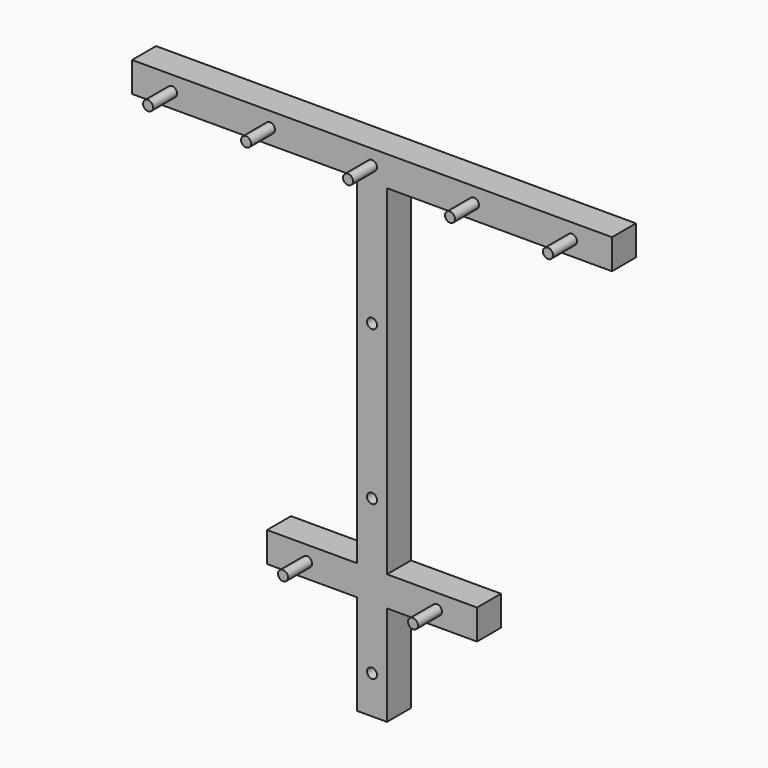
from build123d import *

# Parameters (mm, degrees)
F1_DEPTH = 38.1
F2_DEPTH = 38.1
F3_R     = 6.35
F4_DEPTH = 38.1
F5_R     = 6.35
F6_DEPTH = 38.1


with BuildPart() as f1:
    # F0 (on Front) → F1 (new body)
    with BuildSketch(Plane.XZ):
        Polygon((323.85, 635), (-285.75, 635), (-285.75, 596.9), (0, 596.9), (0, 165.1), (-114.3, 165.1), (-114.3, 127), (0, 127), (0, 0), (38.1, 0), (38.1, 127), (152.4, 127), (152.4, 165.1), (38.1, 165.1), (38.1, 596.9), (323.85, 596.9), align=None)
    extrude(amount=F1_DEPTH)

    # F0 (on Front) → F2 (join)
    with BuildSketch(Plane.XZ):
        Polygon((323.85, 635), (-285.75, 635), (-285.75, 596.9), (0, 596.9), (0, 165.1), (-114.3, 165.1), (-114.3, 127), (0, 127), (0, 0), (38.1, 0), (38.1, 127), (152.4, 127), (152.4, 165.1), (38.1, 165.1), (38.1, 596.9), (323.85, 596.9), align=None)
    extrude(amount=F2_DEPTH)

    # F3 (on face) → F4 (join)
    with BuildSketch(Plane.XZ.offset(38.1)):
        with Locations((-234.95, 615.95)):
            Circle(F3_R)
        with Locations((-110.49, 615.95)):
            Circle(F3_R)
        with Locations((19.05, 615.95)):
            Circle(F3_R)
        with Locations((148.59, 615.95)):
            Circle(F3_R)
        with Locations((273.05, 615.93546)):
            Circle(F3_R)
        with Locations((-63.5, 146.05)):
            Circle(F3_R)
        with Locations((101.6, 146.05)):
            Circle(F3_R)
    extrude(amount=F4_DEPTH)

    # F5 (on face) → F6 (cut)
    with BuildSketch(Plane.XZ.offset(38.1)):
        with Locations((19.05, 439.42)):
            Circle(F5_R)
        with Locations((19.05, 243.84)):
            Circle(F5_R)
        with Locations((19.05, 48.26)):
            Circle(F5_R)
    extrude(amount=-F6_DEPTH, mode=Mode.SUBTRACT)


solid = f1.part
